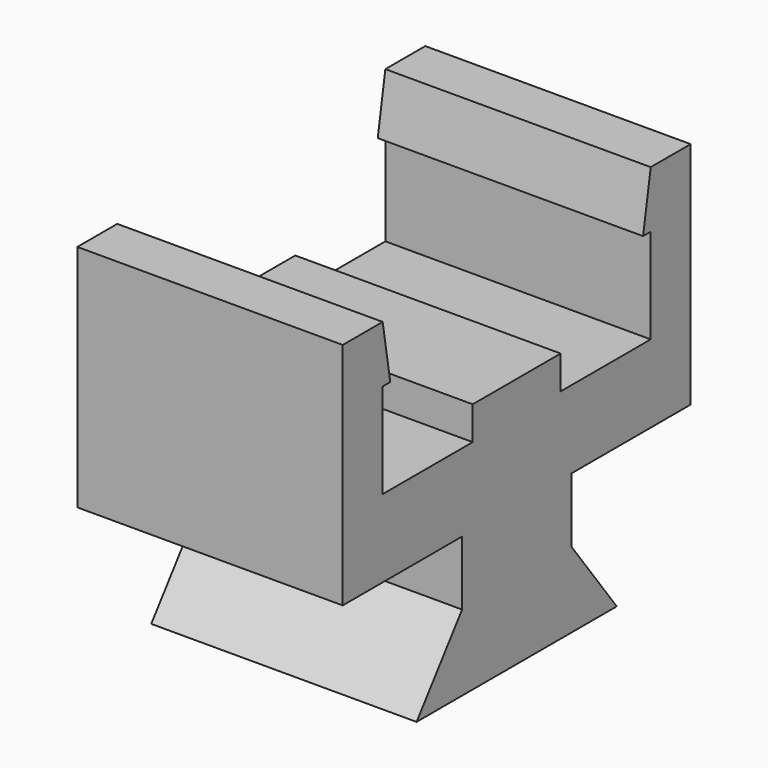
from build123d import *

# Parameters (mm, degrees)
F0_W     = 3.6
F0_H     = 1.6955656027
F0_H_2   = 2
F1_DEPTH = 7


with BuildPart() as f1:
    # F0 (on Right) → F1 (new body)
    with BuildSketch(Plane.YZ):
        with Locations((-0.3402145463, -3.3855575087)):
            Rectangle(F0_W, F0_H)
        with Locations((-0.3402145463, -5.2333403101)):
            Rectangle(F0_W, F0_H_2)
        Polygon((-2.1402145463, -6.2333403101), (-2.1402145463, -4.2333403101), (-3.6402145463, -6.2333403101), align=None)
        Polygon((-3.3397897729, -2.5377747074), (-2.1402145463, -2.5377747074), (1.4597854537, -2.5377747074), (2.6593606802, -2.5377747074), (2.6593606802, -0.4877204478), (1.1097854537, -0.4877204478), (-0.3402145463, -0.4877204478), (-1.7902145463, -0.4877204478), (-3.3397897729, -0.4877204478), align=None)
        Polygon((2.9597854537, -6.2333403101), (1.4597854537, -4.2333403101), (1.4597854537, -6.2333403101), align=None)
        Polygon((-3.3402145463, -2.5377747074), (-3.3397897729, -2.5377747074), (-3.3397897729, -0.4877204478), (-4.7602145463, -0.4877204478), (-4.7602145463, 2.0122795522), (-4.508031692, 2.0122795522), (-4.7602145463, 3.5118722885), (-6.076728541, 3.5118722885), (-6.076728541, -2.5377747074), align=None)
        Polygon((2.6593606802, -0.4877204478), (2.6593606802, -2.5377747074), (2.6597854537, -2.5377747074), (5.3962994483, -2.5377747074), (5.3962994483, 3.5118722885), (4.0797854537, 3.5118722885), (3.8276025993, 2.0122795522), (4.0797854537, 2.0122795522), (4.0797854537, -0.4877204478), align=None)
        Polygon((-1.7902145463, 0.3914704144), (-1.7902145463, -0.4877204478), (-0.3402145463, -0.4877204478), (1.1097854537, -0.4877204478), (1.1097854537, 0.3914704144), (-0.3402145463, 0.3914704144), align=None)
    extrude(amount=F1_DEPTH)


solid = f1.part
